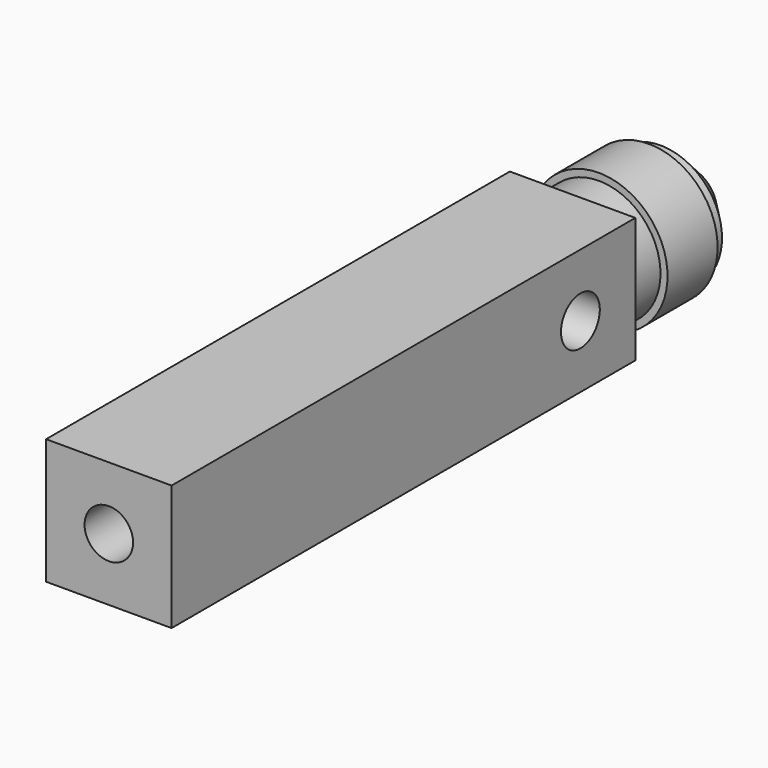
from build123d import *

# Parameters (mm, degrees)
F0_W     = 21.9964
F0_H     = 21.9964
F1_DEPTH = 101.6
F5_D     = 8.5
F5_DEPTH = 10
F5_TIP   = 2.5536576309
F7_D     = 8.5
F7_DEPTH = 10
F7_TIP   = 2.5536576309


with BuildPart() as f1:
    # F0 (on Front) → F1 (new body)
    with BuildSketch(Plane.XZ):
        Rectangle(F0_W, F0_H)
    extrude(amount=F1_DEPTH)

    # F2 (on Top) → F3 (revolve)
    with BuildSketch(Plane.XY):
        Polygon((-10.800095275, 0), (0, 0), (0, 24.9989666045), (-5.3329677321, 24.9989666045), (-10.800095275, 19.2432253866), (-10.800095275, 16.7330801487), (-12.0340296999, 16.7330801487), (-12.0340296999, 5.7621949818), (-10.800095275, 5.7621949818), align=None)
    revolve(axis=Axis((0, 12.4994833022, 0), (0, 1, 0)))

    # F5
    with Locations(Plane.YZ.offset(10.9982)):
        with Locations((-12.036957778, 0)):
            Hole(F5_D / 2, depth=F5_DEPTH)
            with Locations((0, 0, -(F5_DEPTH + F5_TIP / 2))):  # 118° drill point
                Cone(0, F5_D / 2, F5_TIP, mode=Mode.SUBTRACT)

    # F7
    with Locations(Plane.XZ.offset(101.6)):
        with Locations((0, 0)):
            Hole(F7_D / 2, depth=F7_DEPTH)
            with Locations((0, 0, -(F7_DEPTH + F7_TIP / 2))):  # 118° drill point
                Cone(0, F7_D / 2, F7_TIP, mode=Mode.SUBTRACT)


solid = f1.part
